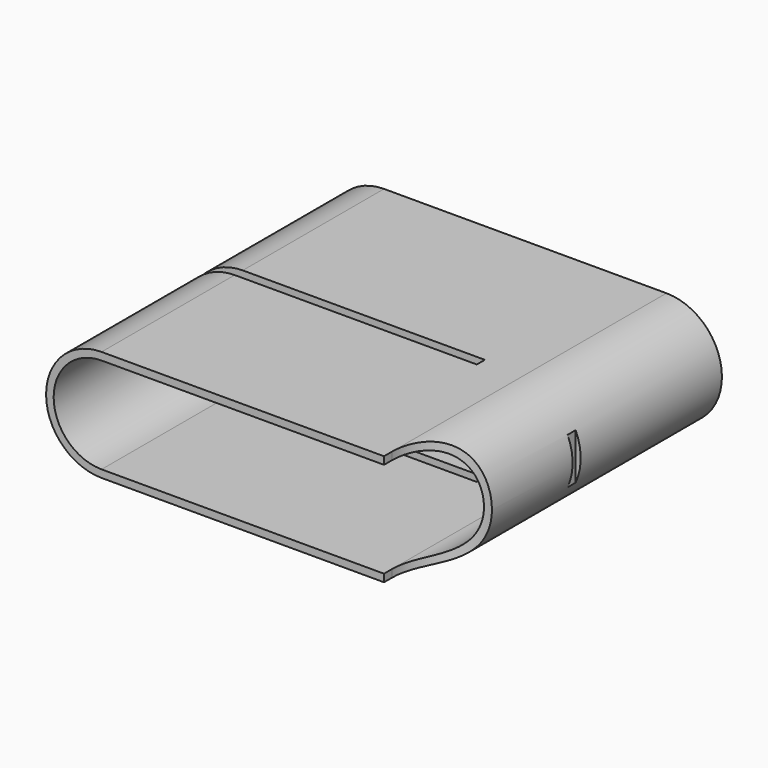
from build123d import *

# Parameters (mm, degrees)
F1_DEPTH = 70
F2_DEPTH = 2
F4_DEPTH = 25
F5_W     = 61
F5_H     = 2
F5_W_2   = 2
F6_DEPTH = 25


with BuildPart() as f1:
    # F0 (on Front) → F1 (new body)
    with BuildSketch(Plane.XZ):
        with BuildLine():
            Line((56, 11), (0, 11))
            ThreePointArc((0, 11), (-11, 0), (0, -11))
            Line((0, -11), (56, -11))
            ThreePointArc((56, -11), (67, 0), (56, 11))
        make_face()
        with BuildLine():
            ThreePointArc((0, -9.5), (-9.5, 0), (0, 9.5))
            Line((0, 9.5), (56, 9.5))
            ThreePointArc((56, 9.5), (65.5, 0), (56, -9.5))
            Line((56, -9.5), (0, -9.5))
        make_face(mode=Mode.SUBTRACT)
    extrude(amount=F1_DEPTH)

    # F0 (on Front) → F2 (join)
    with BuildSketch(Plane.XZ):
        with BuildLine():
            Line((56, 9.5), (0, 9.5))
            ThreePointArc((0, 9.5), (-9.5, 0), (0, -9.5))
            Line((0, -9.5), (56, -9.5))
            ThreePointArc((56, -9.5), (65.5, 0), (56, 9.5))
        make_face()
    extrude(amount=F2_DEPTH)

    # F3 (on face) → F4 (cut)
    with BuildSketch(Plane(origin=(0, 0, -11), x_dir=(1, 0, 0), z_dir=(0, 0, -1))):
        with BuildLine():
            Line((67, 70), (56, 70))
            Line((56, 70), (56, 68))
            ThreePointArc((56, 68), (59.221825, 60.221825), (67, 57))
            Line((67, 57), (67, 70))
        make_face()
    extrude(amount=-F4_DEPTH, mode=Mode.SUBTRACT)

    # F5 (on face) → F6 (cut)
    with BuildSketch(Plane(origin=(0, 0, -11), x_dir=(1, 0, 0), z_dir=(0, 0, -1))):
        with Locations((17.5, 36)):
            Rectangle(F5_W, F5_H)
        with Locations((67, 36)):
            Rectangle(F5_W_2, F5_H)
    extrude(amount=-F6_DEPTH, mode=Mode.SUBTRACT)


solid = f1.part
